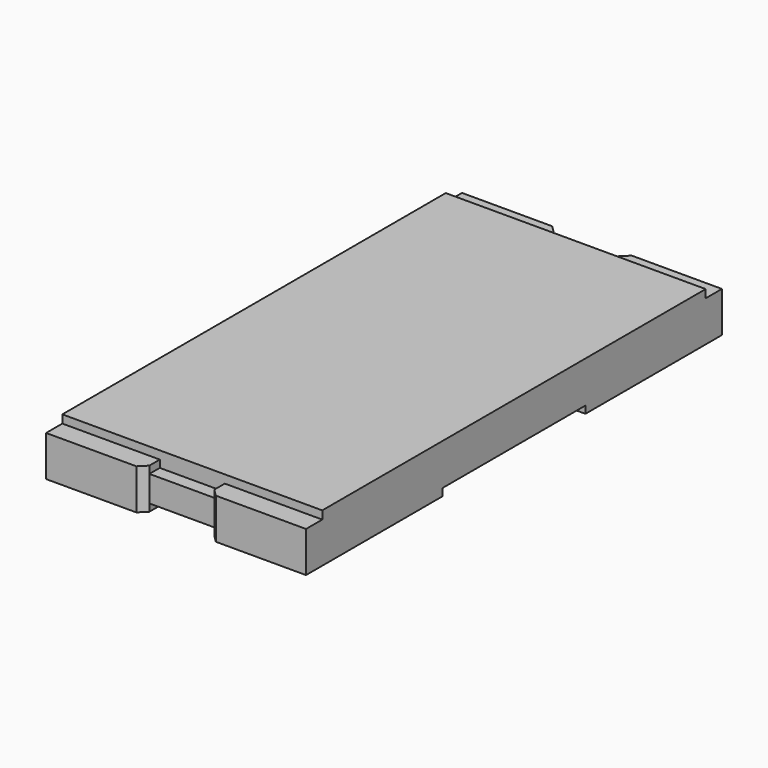
from build123d import *

# Parameters (mm, degrees)
SKETCH001_W  = 5.9
SKETCH001_H  = 0.19
PAD001_DEPTH = 3.2
SKETCH_W     = 6.22
SKETCH_H     = 0.32
PAD_DEPTH    = 3.2
PAD002_DEPTH = 1.2
CHAMFER_SIZE = 0.089


with BuildPart() as body001:
    # Sketch001 → Pad001 (new body)
    with BuildSketch(Plane.YZ):
        with Locations((0, 0.505)):
            Rectangle(SKETCH001_W, SKETCH001_H)
    extrude(amount=PAD001_DEPTH)


with BuildPart() as fusion002:
    # Sketch → Pad (new body)
    with BuildSketch(Plane.YZ):
        with Locations((0, 0.25)):
            Rectangle(SKETCH_W, SKETCH_H)
    extrude(amount=PAD_DEPTH)

    # Fusion002: union Body001
    add(body001.part)


with BuildPart() as body002:
    # Sketch002 → Pad002 (new body)
    with BuildSketch(Plane.YZ):
        Polygon((-2.95, 0.41), (-3.11, 0.41), (-3.11, 0.09), (-1.1, 0.09), (-1.1, 0), (-3.2, 0), (-3.2, 0.5), (-2.95, 0.5), align=None)
    extrude(amount=PAD002_DEPTH)

    # Chamfer
    chamfer_edges = [body002.edges().sort_by_distance(p)[0] for p in [
        (1.2, -3.2, 0.25),
    ]]
    chamfer(chamfer_edges, length=CHAMFER_SIZE)


with BuildPart() as mirror_of_body002:
    # mirror: instance of Body002
    add(body002.part.mirror(Plane(origin=(1.6, 0, 0), x_dir=(0, -1, 0), z_dir=(1, 0, 0))))


with BuildPart() as fusion:
    # Fusion base: copy of Body002
    add(body002.part)

    # Fusion: union Mirror of Body002
    add(mirror_of_body002.part)


with BuildPart() as mirror_of_fusion:
    # mirror001: instance of Fusion
    add(fusion.part.mirror(Plane(origin=(0, 0, 0), x_dir=(1, 0, 0), z_dir=(0, 1, 0))))


with BuildPart() as obj1:
    # Fusion001 base: copy of Fusion
    add(fusion.part)

    # Fusion001: union Mirror of Fusion
    add(mirror_of_fusion.part)

    # Fusion003: union Fusion002
    add(fusion002.part)


solid = obj1.part
